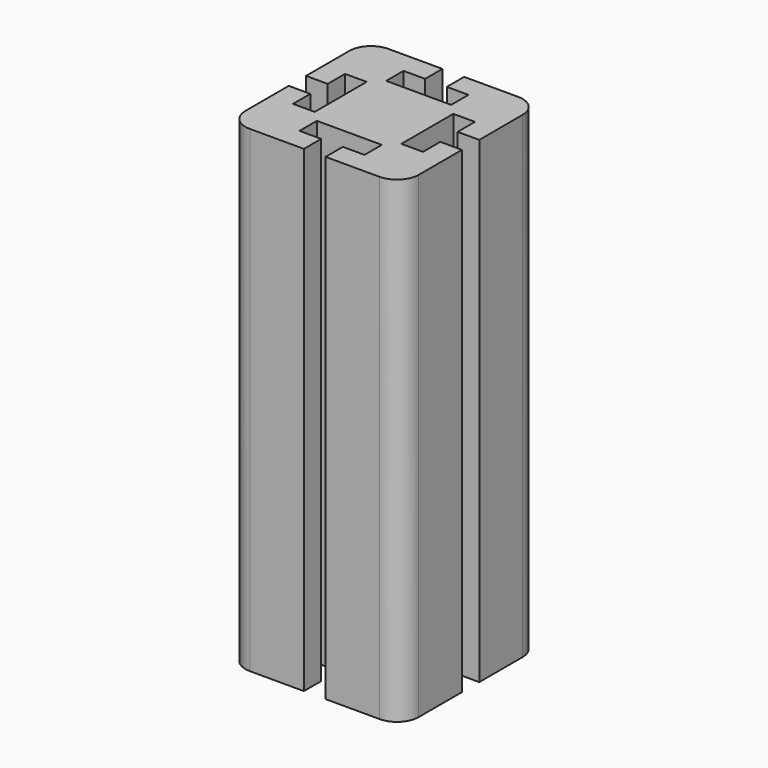
from build123d import *

# Parameters (mm, degrees)
F1_DEPTH = 2799.99948


with BuildPart() as f1:
    # F0 (on Top) → F1 (new body)
    with BuildSketch(Plane.XY):
        with BuildLine():
            Line((-63.5, 508), (-381, 508))
            ThreePointArc((-381, 508), (-470.802561, 470.802561), (-508, 381))
            Line((-508, 381), (-508, 63.5))
            Line((-508, 63.5), (-381, 63.5))
            Line((-381, 63.5), (-381, 190.5))
            Line((-381, 190.5), (-254, 190.5))
            Line((-254, 190.5), (-254, -190.5))
            Line((-254, -190.5), (-381, -190.5))
            Line((-381, -190.5), (-381, -63.5))
            Line((-381, -63.5), (-508, -63.5))
            Line((-508, -63.5), (-508, -381))
            ThreePointArc((-508, -381), (-470.802561, -470.802561), (-381, -508))
            Line((-381, -508), (-63.5, -508))
            Line((-63.5, -508), (-63.5, -381))
            Line((-63.5, -381), (-190.5, -381))
            Line((-190.5, -381), (-190.5, -254))
            Line((-190.5, -254), (190.5, -254))
            Line((190.5, -254), (190.5, -381))
            Line((190.5, -381), (63.5, -381))
            Line((63.5, -381), (63.5, -508))
            Line((63.5, -508), (381, -508))
            ThreePointArc((381, -508), (470.802561, -470.802561), (508, -381))
            Line((508, -381), (508, -63.5))
            Line((508, -63.5), (381, -63.5))
            Line((381, -63.5), (381, -190.5))
            Line((381, -190.5), (254, -190.5))
            Line((254, -190.5), (254, 190.5))
            Line((254, 190.5), (381, 190.5))
            Line((381, 190.5), (381, 63.5))
            Line((381, 63.5), (508, 63.5))
            Line((508, 63.5), (508, 381))
            ThreePointArc((508, 381), (470.802561, 470.802561), (381, 508))
            Line((381, 508), (63.5, 508))
            Line((63.5, 508), (63.5, 381))
            Line((63.5, 381), (190.5, 381))
            Line((190.5, 381), (190.5, 254))
            Line((190.5, 254), (-190.5, 254))
            Line((-190.5, 254), (-190.5, 381))
            Line((-190.5, 381), (-63.5, 381))
            Line((-63.5, 381), (-63.5, 508))
        make_face()
    extrude(amount=F1_DEPTH)


solid = f1.part
